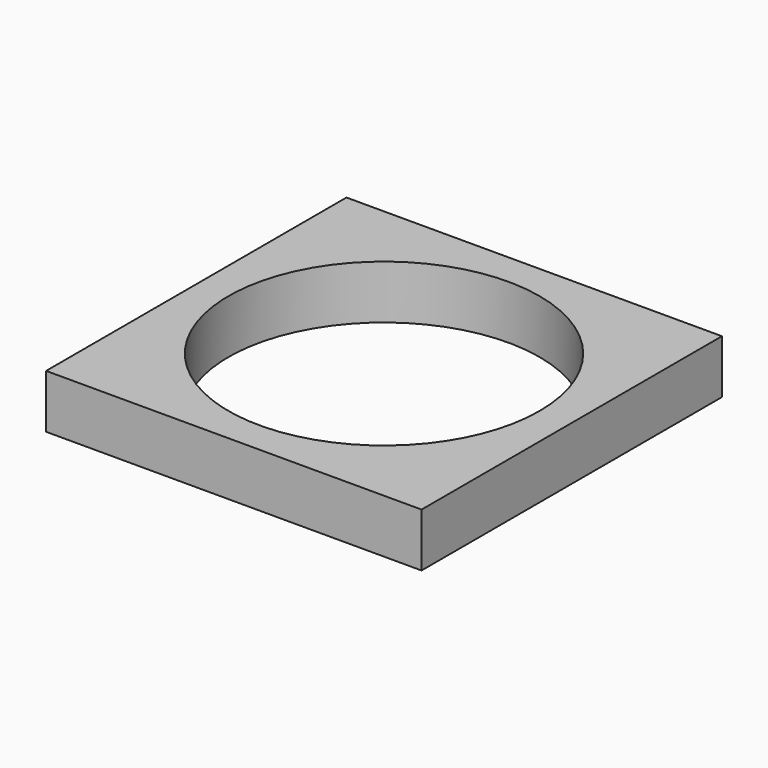
from build123d import *

# Parameters (mm, degrees)
SKETCH_W  = 35
SKETCH_H  = 35
SKETCH_R  = 14.5
PAD_DEPTH = 5


with BuildPart() as part:
    # Sketch → Pad (new body)
    with BuildSketch(Plane.XY):
        with Locations((17.5, 17.5)):
            Rectangle(SKETCH_W, SKETCH_H)
        with Locations((17.5, 17.5)):
            Circle(SKETCH_R, mode=Mode.SUBTRACT)
    extrude(amount=PAD_DEPTH)


solid = part.part
